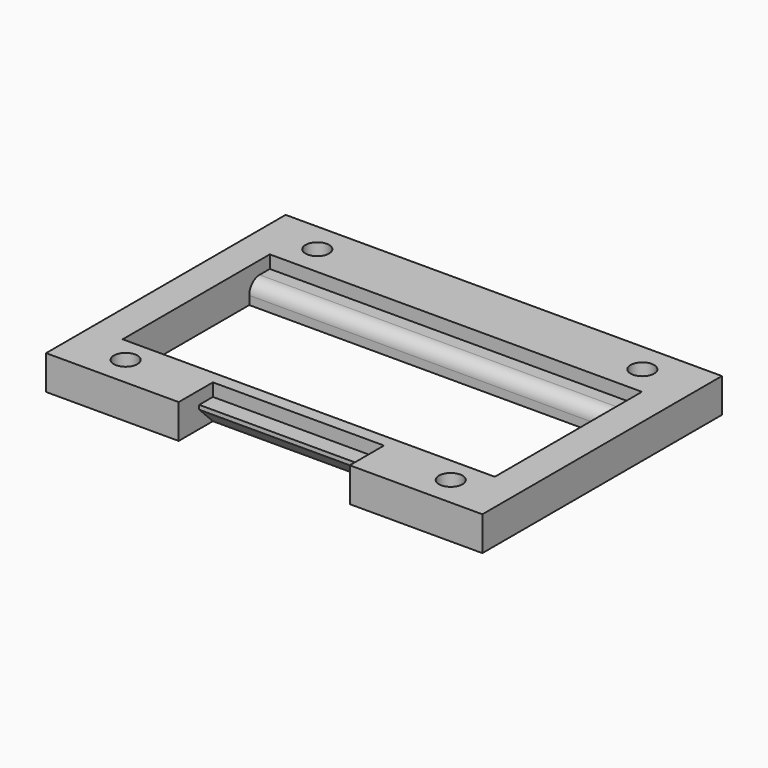
from build123d import *

# Parameters (mm, degrees)
SKETCH_W     = 87
SKETCH_H     = 37
PAD_DEPTH    = 5
SKETCH001_W  = 87
SKETCH001_H  = 43
PAD001_DEPTH = 3
CHAMFER_SIZE = 4
FILLET_R     = 3
SKETCH002_R  = 2.75
POCKET_DEPTH = 8.001


with BuildPart() as part:
    # Sketch → Pad (new body)
    with BuildSketch(Plane.XY):
        Polygon((-51, -31.5), (-51, 38.5), (51, 38.5), (51, -31.5), (20, -31.5), (20, -25.5), (-20, -25.5), (-20, -31.5), align=None)
        Rectangle(SKETCH_W, SKETCH_H, mode=Mode.SUBTRACT)
    extrude(amount=PAD_DEPTH)

    # Sketch001 (on Face14 of Pad) → Pad001 (join)
    with BuildSketch(Plane.XY.offset(5)):
        Polygon((-51, 38.5), (51, 38.5), (51, -31.5), (20, -31.5), (20, -21.5), (-20, -21.5), (-20, -31.5), (-51, -31.5), align=None)
        with Locations((0, 3)):
            Rectangle(SKETCH001_W, SKETCH001_H, mode=Mode.SUBTRACT)
    extrude(amount=PAD001_DEPTH)

    # Chamfer
    chamfer_edges = [part.edges().sort_by_distance(p)[0] for p in [
        (0, -25.5, 0),
    ]]
    chamfer(chamfer_edges, length=CHAMFER_SIZE)

    # Fillet
    fillet_edges = [part.edges().sort_by_distance(p)[0] for p in [
        (0, 18.5, 5),
    ]]
    fillet(fillet_edges, radius=FILLET_R)

    # Sketch002 (on Face18 of Fillet) → Pocket (cut, through all)
    with BuildSketch(Plane.XY.offset(8)):
        with Locations((-38, 31.5)):
            Circle(SKETCH002_R)
        with Locations((38, 31.5)):
            Circle(SKETCH002_R)
        with Locations((38, -24.5)):
            Circle(SKETCH002_R)
        with Locations((-38, -24.5)):
            Circle(SKETCH002_R)
    extrude(amount=-POCKET_DEPTH, mode=Mode.SUBTRACT)


solid = part.part
